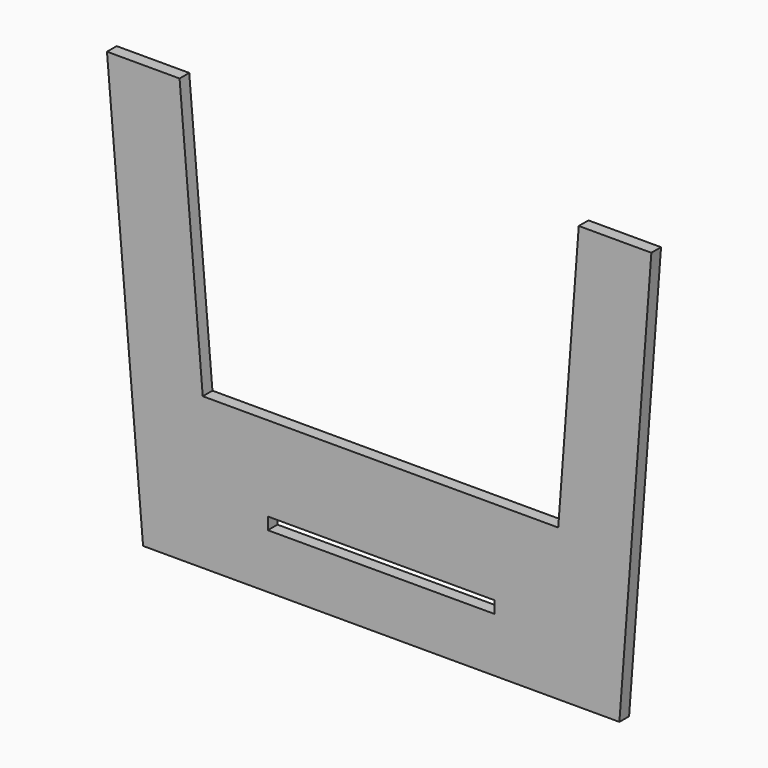
from build123d import *

# Parameters (mm, degrees)
F1_DEPTH = 2


with BuildPart() as f1:
    # F0 (on Front) → F1 (new body)
    with BuildSketch(Plane.XZ):
        Polygon((-39.375, 0), (0, 0), (39.375, 0), (44.658148, 70), (32.658148, 70), (29.261839, 25), (-29.506019, 25), (-33.341852, 70), (-45.341852, 70), align=None)
        Polygon((18.75, 9), (0, 9), (-18.75, 9), (-18.75, 11), (18.75, 11), align=None, mode=Mode.SUBTRACT)
    extrude(amount=F1_DEPTH)


solid = f1.part
